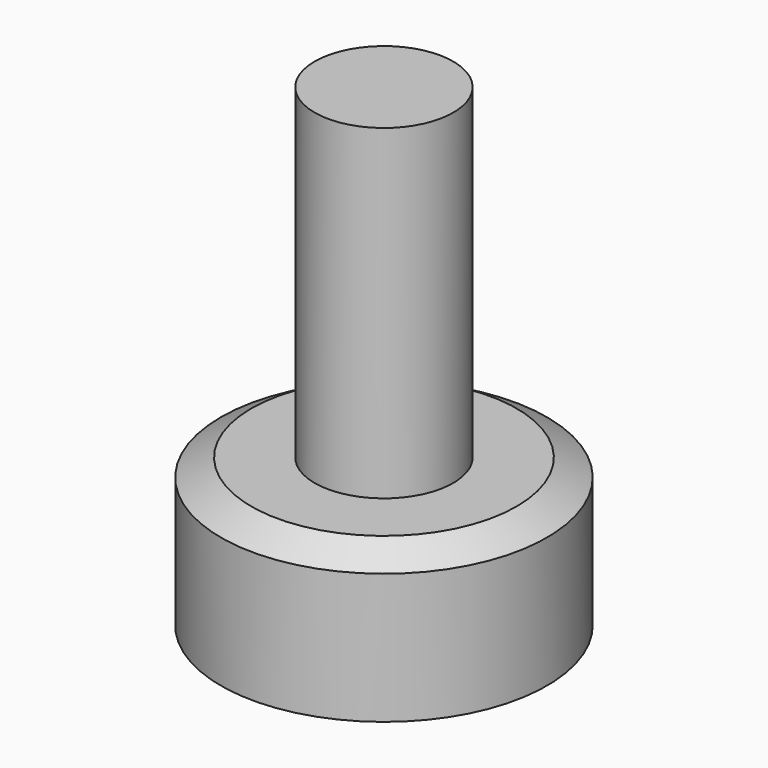
from build123d import *

# Parameters (mm, degrees)
F0_W   = 4.25
F0_H   = 20
F0_H_2 = 3
F0_H_3 = 1.0746234533


with BuildPart() as f1:
    # F0 (on Front) → F1 (revolve)
    with BuildSketch(Plane.XZ):
        with Locations((-22.6763077103, 19.0746234533)):
            Rectangle(F0_W, F0_H)
        Polygon((-24.8013077103, 8), (-30.5513077103, 8), (-30.5513077103, 0), (-24.8013077103, 0), (-24.8013077103, 5), align=None)
        Polygon((-28.6900052902, 9.0746234533), (-30.5513077103, 8), (-24.8013077103, 8), (-24.8013077103, 9.0746234533), align=None)
        with Locations((-22.6763077103, 6.5)):
            Rectangle(F0_W, F0_H_2)
        with Locations((-22.6763077103, 8.5373117267)):
            Rectangle(F0_W, F0_H_3)
    revolve(axis=Axis((-20.5513077103, 0, 19.0746234533), (0, 0, 1)))


solid = f1.part
